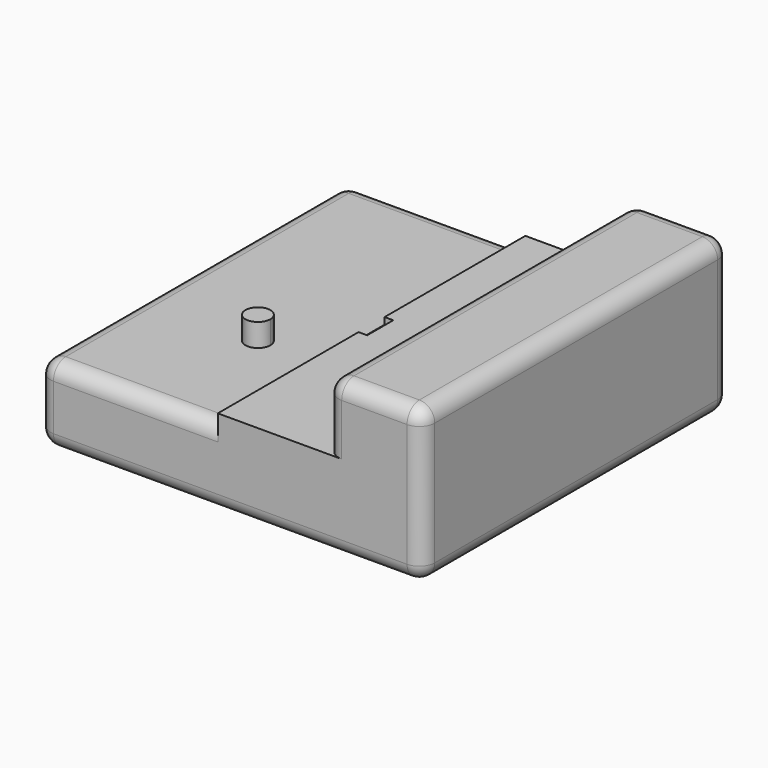
from build123d import *

# Parameters (mm, degrees)
F0_W      = 100
F0_H      = 100
F1_DEPTH  = 10
F3_W      = 25
F3_H      = 10.365
F4_DEPTH  = 100
F6_DEPTH  = 4.045
F7_DEPTH  = 28.235
F9_DEPTH  = 2.25
F11_DEPTH = 5.97
F12_R     = 4
F13_W     = 2.25
F13_H     = 8.4769393061
F14_DEPTH = 1.73


with BuildPart() as f1:
    # F0 (on Top) → F1 (new body, symmetric)
    with BuildSketch(Plane.XY):
        Rectangle(F0_W, F0_H)
    extrude(amount=F1_DEPTH, both=True)

    # F3 (on face) → F4 (join)
    with BuildSketch(Plane.XZ.offset(50)):
        Polygon((25, 10), (50, 10), (50, 19.635), (25, 19.635), (25, 16.095), (25, 12.555), align=None)
        with Locations((37.5, 24.8175)):
            Rectangle(F3_W, F3_H)
    extrude(amount=-F4_DEPTH)

    # F5 (on face) → F6 (cut)
    with BuildSketch(Plane(origin=(25, 0, 0), x_dir=(0, -1, 0), z_dir=(-1, 0, 0))):
        with BuildLine():
            ThreePointArc((3.54, 16.935), (-2.5031580054, 19.4381580054), (0, 13.395))
            ThreePointArc((0, 13.395), (2.5031580054, 14.4318419946), (3.54, 16.935))
        make_face()
    extrude(amount=-F6_DEPTH, mode=Mode.SUBTRACT)

    # F5 (on face) → F7 (join)
    with BuildSketch(Plane(origin=(25, 0, 0), x_dir=(0, -1, 0), z_dir=(-1, 0, 0))):
        Polygon((0, 10), (50, 10), (50, 11.715), (50, 12.555), (0, 12.555), align=None)
        Polygon((-50, 10), (0, 10), (0, 12.555), (-50, 12.555), (-50, 11.715), align=None)
    extrude(amount=F7_DEPTH)

    # F8 (on face) → F9 (cut)
    with BuildSketch(Plane(origin=(-3.235, 0, 0), x_dir=(0, -1, 0), z_dir=(-1, 0, 0))):
        with BuildLine():
            Line((0, 10.84), (0, 12.555))
            Line((0, 12.555), (-4.2384696531, 12.555))
            ThreePointArc((-4.2384696531, 12.555), (-2.286145774, 11.284994469), (0, 10.84))
        make_face()
        with BuildLine():
            Line((4.2384696531, 12.555), (0, 12.555))
            Line((0, 12.555), (0, 10.84))
            ThreePointArc((0, 10.84), (2.286145774, 11.284994469), (4.2384696531, 12.555))
        make_face()
    extrude(amount=-F9_DEPTH, mode=Mode.SUBTRACT)

    # F10 (on face) → F11 (join)
    with BuildSketch(Plane.XY.offset(10)):
        with BuildLine():
            ThreePointArc((-16.665, -16.13), (-17.613974029, -13.838974029), (-19.905, -12.89))
            ThreePointArc((-19.905, -12.89), (-22.196025971, -18.421025971), (-16.665, -16.13))
        make_face()
    extrude(amount=F11_DEPTH)

    # F12
    f12_edges = [f1.edges().sort_by_distance(p)[0] for p in [
        (25, 0, 30),
        (50, 0, 30),
        (-50, 0, 10),
        (-50, 0, -10),
        (50, 0, -10),
        (25, -50, 21.2775),
        (37.5, -50, 30),
        (50, -50, 10),
        (0, -50, -10),
        (-50, -50, 0),
        (-50, 50, 0),
        (-26.6175, 50, 10),
        (25, 50, 21.2775),
        (37.5, 50, 30),
        (50, 50, 10),
        (0, 50, -10),
        (-26.6175, -50, 10),
    ]]
    fillet(f12_edges, radius=F12_R)

    # F13 (on face) → F14 (cut)
    with BuildSketch(Plane.XY.offset(12.555)):
        with Locations((-2.11, 0)):
            Rectangle(F13_W, F13_H)
    extrude(amount=-F14_DEPTH, mode=Mode.SUBTRACT)


solid = f1.part
